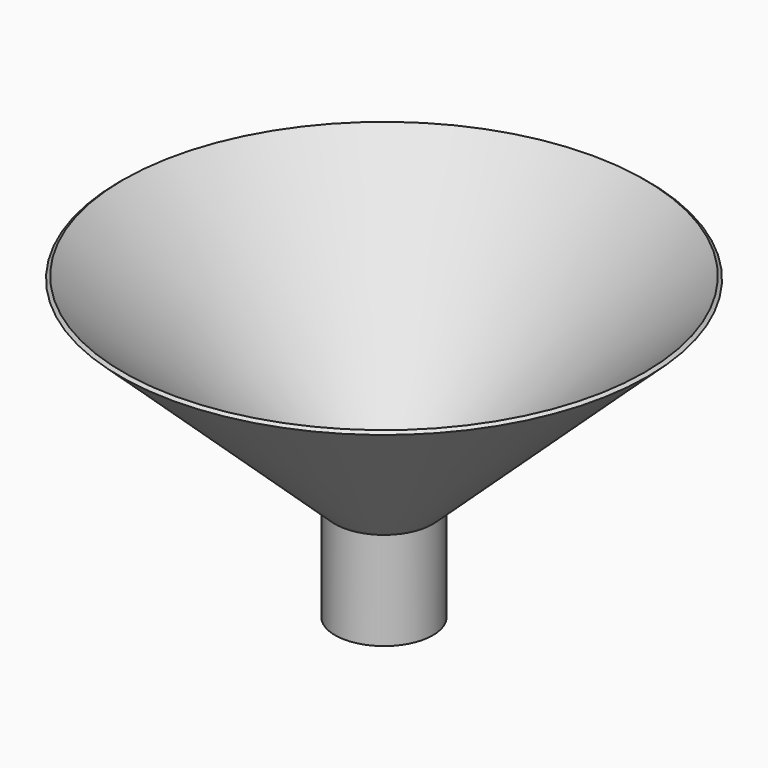
from build123d import *

# Parameters (mm, degrees)
F2_R     = 11.818336
F4_DEPTH = 50.8


with BuildPart() as f1:
    # F0 (on Front) → F1 (revolve)
    with BuildSketch(Plane.XZ):
        Polygon((0, -25.4), (0, 0), (55.803983, 51.887913), (54.958458, 52.550074), (-1.55766, 0), (-12.7, 0), (-12.7, -25.4), align=None)
    revolve(axis=Axis((-12.7, 0, -12.7), (0, 0, 1)))

    # F2 (on face) → F4 (cut)
    with BuildSketch(Plane(origin=(0, 0, -25.4), x_dir=(1, 0, 0), z_dir=(0, 0, -1))):
        with Locations((-12.7, 0)):
            Circle(F2_R)
    extrude(amount=-F4_DEPTH, mode=Mode.SUBTRACT)


solid = f1.part
